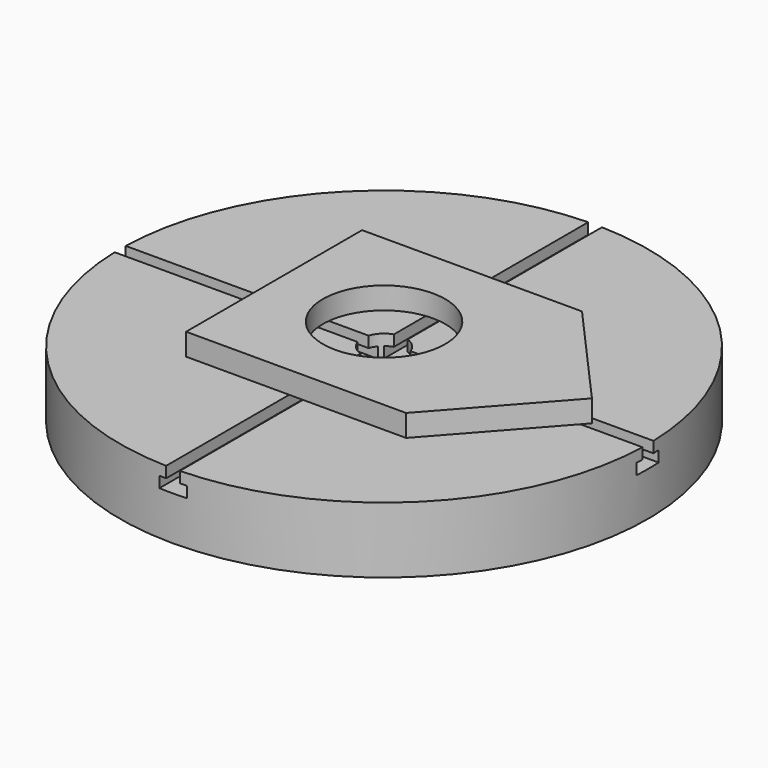
from build123d import *

# Parameters (mm, degrees)
F0_R          = 304.8
F0_R_2        = 25.4
F1_DEPTH      = 76.2
F3_DEPTH      = 304.801
F3_DEPTH_BACK = 304.801
F4_COUNT      = 2
F4_ANGLE      = 90
F6_W          = 254
F6_H          = 254
F6_R          = 70.594601
F7_DEPTH      = 25.4
F8_ANGLE      = -90


with BuildPart() as f1:
    # F0 (on Top) → F1 (new body)
    with BuildSketch(Plane.XY):
        Circle(F0_R)
        Circle(F0_R_2, mode=Mode.SUBTRACT)
    extrude(amount=F1_DEPTH)


with BuildPart() as f3:
    # F2 (on Front) → F3 (new body, two sides)
    with BuildSketch(Plane.XZ) as f3_sk:
        Polygon((7.9375, 76.2), (-7.9375, 76.2), (-7.9375, 63.5), (-15.875, 63.5), (-15.875, 50.8), (15.875, 50.8), (15.875, 63.5), (7.9375, 63.5), align=None)
    extrude(amount=F3_DEPTH)
    extrude(f3_sk.sketch, amount=-F3_DEPTH_BACK)


with BuildPart() as f4_1:
    # F4: instance of F3
    add(f3.part.rotate(Axis((0, 0, 58.865096), (0, 0, 1)), 1 * F4_ANGLE / (F4_COUNT - 1)))


with BuildPart() as f1_1:
    add(f1.part)

    # F5: cut F4_1, F3
    add(f4_1.part, mode=Mode.SUBTRACT)
    add(f3.part, mode=Mode.SUBTRACT)


with BuildPart() as f7:
    # F6 (on face) → F7 (new body)
    with BuildSketch(Plane.XY.offset(76.2)):
        Rectangle(F6_W, F6_H)
        Circle(F6_R, mode=Mode.SUBTRACT)
        Rectangle(F6_W, F6_H)
        Circle(F6_R, mode=Mode.SUBTRACT)
        Polygon((0, 240.081295), (-127, 127), (127, 127), align=None)
        Polygon((0, 240.081295), (-127, 127), (127, 127), align=None)
    extrude(amount=F7_DEPTH)


with BuildPart() as f1_2:
    # F8: moved
    add(f1_1.part.rotate(Axis((0, 0, 58.865096), (0, 0, 1)), F8_ANGLE))


with BuildPart() as f7_1:
    # F8: moved
    add(f7.part.rotate(Axis((0, 0, 58.865096), (0, 0, 1)), F8_ANGLE))


solid = Compound([f1_2.part, f7_1.part])
